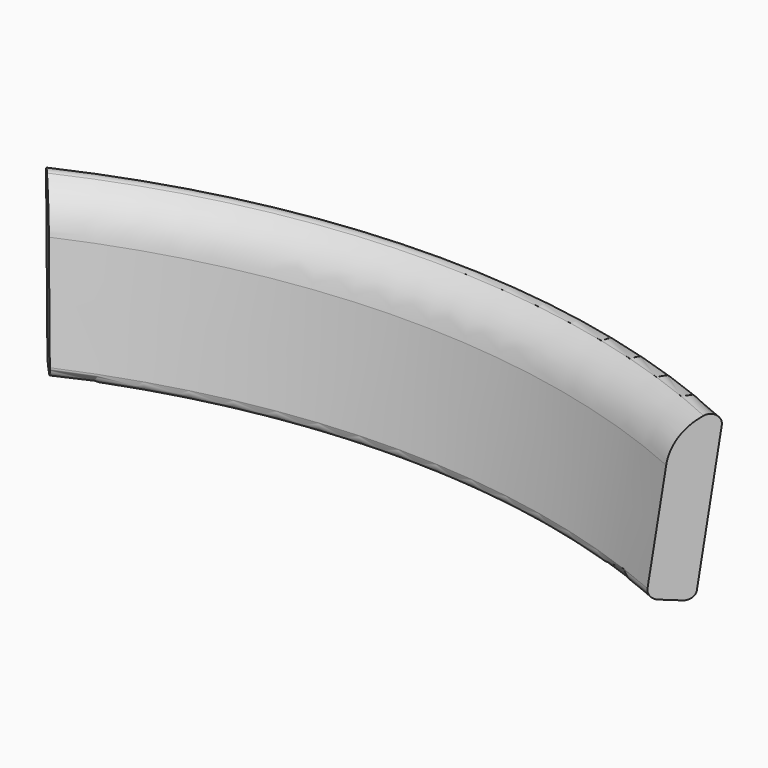
from build123d import *

# Parameters (mm, degrees)
F2_ANGLE_BACK = 30
F2_ANGLE      = 60
F5_DEPTH      = 131.9732842986


with BuildPart() as f2:
    # F1 (on Right) → F2 (revolve)
    with BuildSketch(Plane.YZ, mode=Mode.PRIVATE) as f2_sk:
        with BuildLine():
            Line((233.9628337183, -75.6511255192), (246.7154579984, 21.2146728049))
            ThreePointArc((246.7154579984, 21.2146728049), (244.032118085, 27.265921249), (237.4233021444, 27.642049801))
            ThreePointArc((237.4233021444, 27.642049801), (224.5232803371, 16.1313207873), (218.3033177394, 0))
            Line((218.3033177394, 0), (208.7801342394, -72.3357602368))
            ThreePointArc((208.7801342394, -72.3357602368), (210.0380153983, -77.0302366316), (214.2469677885, -79.4602764271))
            Line((214.2469677885, -79.4602764271), (226.838317528, -81.1179590683))
            ThreePointArc((226.838317528, -81.1179590683), (231.5327939228, -79.8600779094), (233.9628337183, -75.6511255192))
        make_face()
    revolve(f2_sk.sketch.rotate(Axis((0, -296.509229319, 0), (0, 0, 1)), -F2_ANGLE_BACK), axis=Axis((0, -296.509229319, 0), (0, 0, 1)), revolution_arc=F2_ANGLE)

    # F4 (on offset) → F5 (cut, through all)
    with BuildSketch(Plane.XY.offset(50.8)):
        Polygon((259.9017761335, 232.6688363086), (0, -61.0966822606), (-264.0937407054, 237.406990332), (-321.8992888179, 178.6029550881), (-55.8336698001, -112.6214605412), (1.9173186045, -175.8333024628), (398.3798539779, 211.9971133263), align=None)
    extrude(amount=-F5_DEPTH, mode=Mode.SUBTRACT)


solid = f2.part
